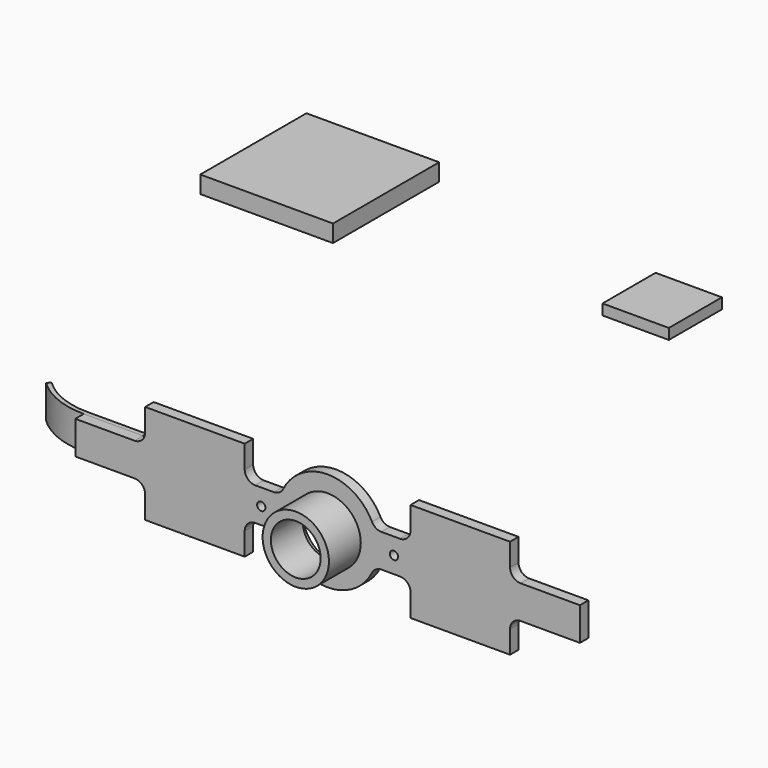
from build123d import *

# Parameters (mm, degrees)
F0_W      = 25.4
F0_H      = 25.4
F1_DEPTH  = 3.302
F2_W      = 12.7
F2_H      = 12.7
F3_DEPTH  = 2.032
F4_R      = 0.79375
F4_R_2    = 6.35
F5_DEPTH  = 2.032
F7_DEPTH  = 6.35
F8_R      = 0.254
F9_DEPTH  = 15.875
F10_R     = 6.35
F10_R_2   = 4.7625
F11_DEPTH = 7.62


with BuildPart() as f1:
    # F0 (on Top) → F1 (new body)
    with BuildSketch(Plane.XY):
        with Locations((-23.801553, 15.933108)):
            Rectangle(F0_W, F0_H)
    extrude(amount=F1_DEPTH)


with BuildPart() as f3:
    # F2 (on Top) → F3 (new body)
    with BuildSketch(Plane.XY):
        with Locations((41.351084, 16.456318)):
            Rectangle(F2_W, F2_H)
    extrude(amount=F3_DEPTH)


with BuildPart() as f5:
    # F4 (on Front) → F5 (new body)
    with BuildSketch(Plane.XZ):
        with BuildLine():
            Line((-44.87432, -42.144069), (-56.226311, -42.144069))
            Line((-56.226311, -42.144069), (-56.226311, -48.494069))
            Line((-56.226311, -48.494069), (-44.87432, -48.494069))
            ThreePointArc((-44.87432, -48.494069), (-43.437479, -49.089228), (-42.84232, -50.526069))
            Line((-42.84232, -50.526069), (-42.84232, -54.844069))
            Line((-42.84232, -54.844069), (-23.79232, -54.844069))
            Line((-23.79232, -54.844069), (-23.79232, -50.526069))
            ThreePointArc((-23.79232, -50.526069), (-23.197161, -49.089228), (-21.76032, -48.494069))
            Line((-21.76032, -48.494069), (-18.234849, -48.494069))
            ThreePointArc((-18.234849, -48.494069), (-17.169791, -48.795556), (-16.420778, -49.610553))
            ThreePointArc((-16.420778, -49.610553), (-7.91732, -54.844069), (0.586138, -49.610553))
            ThreePointArc((0.586138, -49.610553), (1.335151, -48.795556), (2.400209, -48.494069))
            Line((2.400209, -48.494069), (5.92568, -48.494069))
            ThreePointArc((5.92568, -48.494069), (7.362521, -49.089228), (7.95768, -50.526069))
            Line((7.95768, -50.526069), (7.95768, -54.844069))
            Line((7.95768, -54.844069), (27.00768, -54.844069))
            Line((27.00768, -54.844069), (27.00768, -50.526069))
            ThreePointArc((27.00768, -50.526069), (27.602839, -49.089228), (29.03968, -48.494069))
            Line((29.03968, -48.494069), (40.391671, -48.494069))
            Line((40.391671, -48.494069), (40.391671, -42.144069))
            Line((40.391671, -42.144069), (29.03968, -42.144069))
            ThreePointArc((29.03968, -42.144069), (27.602839, -41.54891), (27.00768, -40.112069))
            Line((27.00768, -40.112069), (27.00768, -35.794069))
            Line((27.00768, -35.794069), (7.95768, -35.794069))
            Line((7.95768, -35.794069), (7.95768, -40.112069))
            ThreePointArc((7.95768, -40.112069), (7.362521, -41.54891), (5.92568, -42.144069))
            Line((5.92568, -42.144069), (2.400209, -42.144069))
            ThreePointArc((2.400209, -42.144069), (1.335151, -41.842582), (0.586138, -41.027586))
            ThreePointArc((0.586138, -41.027586), (-7.91732, -35.794069), (-16.420778, -41.027586))
            ThreePointArc((-16.420778, -41.027586), (-17.169791, -41.842582), (-18.234849, -42.144069))
            Line((-18.234849, -42.144069), (-21.76032, -42.144069))
            ThreePointArc((-21.76032, -42.144069), (-23.197161, -41.54891), (-23.79232, -40.112069))
            Line((-23.79232, -40.112069), (-23.79232, -35.794069))
            Line((-23.79232, -35.794069), (-42.84232, -35.794069))
            Line((-42.84232, -35.794069), (-42.84232, -40.112069))
            ThreePointArc((-42.84232, -40.112069), (-43.437479, -41.54891), (-44.87432, -42.144069))
        make_face()
        with Locations((-20.61732, -45.319069)):
            Circle(F4_R, mode=Mode.SUBTRACT)
        with Locations((-7.91732, -45.319069)):
            Circle(F4_R_2, mode=Mode.SUBTRACT)
        with Locations((4.78268, -45.319069)):
            Circle(F4_R, mode=Mode.SUBTRACT)
    extrude(amount=F5_DEPTH)


with BuildPart() as f7:
    # F6 (on face) → F7 (new body)
    with BuildSketch(Plane(origin=(0, 0, -48.494069), x_dir=(1, 0, 0), z_dir=(0, 0, -1))):
        with BuildLine():
            Line((-44.87432, -0.8382), (-44.87432, 0))
            Line((-44.87432, 0), (-56.226311, 0))
            ThreePointArc((-56.226311, 0), (-61.980686, -1.120425), (-66.894311, -4.318))
            Line((-66.894311, -4.318), (-66.311286, -4.920214))
            ThreePointArc((-66.311286, -4.920214), (-61.6662, -1.897392), (-56.226311, -0.8382))
            Line((-56.226311, -0.8382), (-44.87432, -0.8382))
        make_face()
    extrude(amount=-F7_DEPTH)


with BuildPart() as f9:
    # F8 (on Top) → F9 (new body)
    with BuildSketch(Plane.XY):
        with Locations((7.016313, 0)):
            Circle(F8_R)
    extrude(amount=F9_DEPTH)


with BuildPart() as f11:
    # F10 (on face) → F11 (new body)
    with BuildSketch(Plane.XZ.offset(2.032)):
        with Locations((-7.91732, -45.319069)):
            Circle(F10_R)
        with Locations((-7.91732, -45.319069)):
            Circle(F10_R_2, mode=Mode.SUBTRACT)
    extrude(amount=F11_DEPTH)


solid = Compound([f1.part, f3.part, f5.part, f7.part, f11.part])
